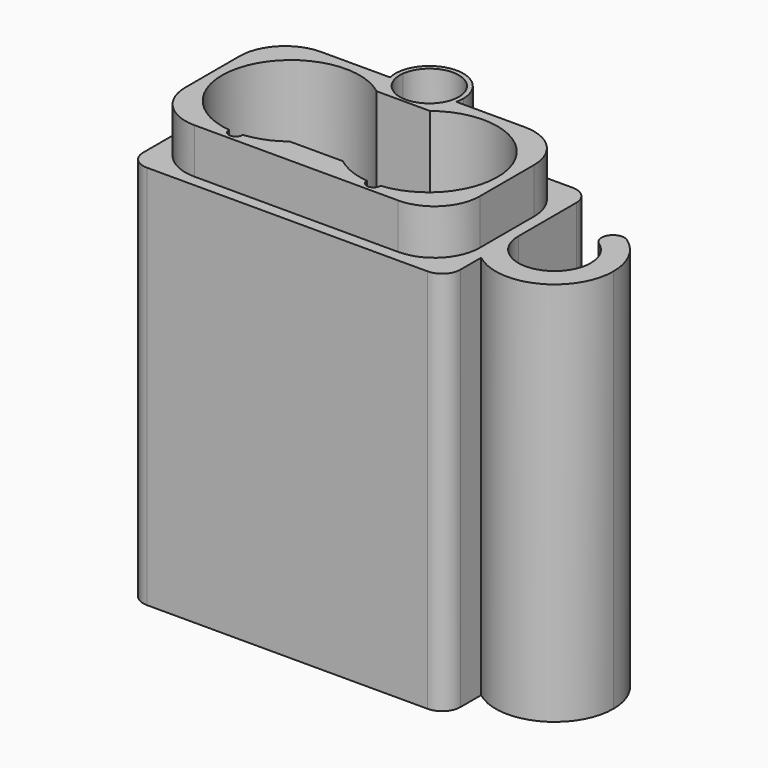
from build123d import *

# Parameters (mm, degrees)
F1_DEPTH  = 2
F2_DEPTH  = 45.5
F4_DEPTH  = 5
F5_R      = 2
F6_R      = 5
F8_DEPTH  = 42.5
F9_R      = 3
F10_DEPTH = 47.501


with BuildPart() as f1:
    # F0 (on Top) → F1 (new body)
    with BuildSketch(Plane.XY):
        with BuildLine():
            ThreePointArc((4.2311346427, 10), (0, 13.850000456), (-4.2311346427, 10))
            Line((-4.2311346427, 10), (-3.2252907411, 10))
            ThreePointArc((-3.2252907411, 10), (0, 12.850000456), (3.2252907411, 10))
            Line((3.2252907411, 10), (4.2311346427, 10))
        make_face()
        with BuildLine():
            Line((3.2252907411, 10), (-3.2252907411, 10))
            ThreePointArc((-3.2252907411, 10), (-0.2003810013, 6.3561836525), (3.25, 9.600000456))
            ThreePointArc((3.25, 9.600000456), (3.2438168034, 9.8003814573), (3.2252907411, 10))
        make_face()
        with BuildLine():
            ThreePointArc((3.2252907411, 10), (0, 12.850000456), (-3.2252907411, 10))
            Line((-3.2252907411, 10), (3.2252907411, 10))
        make_face()
        with BuildLine():
            ThreePointArc((-2.9352384841, 6), (-0.7731344117, 3.3397464334), (0, 0))
            ThreePointArc((0, 0), (0.7731344117, 3.3397464334), (2.9352384841, 6))
            Line((2.9352384841, 6), (2.2588706729, 6))
            ThreePointArc((2.2588706729, 6), (0, 5.350000456), (-2.2588706729, 6))
            Line((-2.2588706729, 6), (-2.9352384841, 6))
        make_face()
        with BuildLine():
            ThreePointArc((2.9352384841, -6), (0.7731344117, -3.3397464334), (0, 0))
            ThreePointArc((0, 0), (-0.7731344117, -3.3397464334), (-2.9352384841, -6))
            Line((-2.9352384841, -6), (2.9352384841, -6))
        make_face()
        with BuildLine():
            ThreePointArc((-4.2311346427, 10), (-3.8118292524, 7.7205170826), (-2.2588706729, 6))
            Line((-2.2588706729, 6), (2.2588706729, 6))
            ThreePointArc((2.2588706729, 6), (3.7190523228, 7.543024564), (4.25, 9.600000456))
            ThreePointArc((4.25, 9.600000456), (4.2452810408, 9.8002225432), (4.2311346427, 10))
            Line((4.2311346427, 10), (3.2252907411, 10))
            ThreePointArc((3.2252907411, 10), (3.2438168034, 9.8003814573), (3.25, 9.600000456))
            ThreePointArc((3.25, 9.600000456), (-0.2003810013, 6.3561836525), (-3.2252907411, 10))
            Line((-3.2252907411, 10), (-4.2311346427, 10))
        make_face()
        with BuildLine():
            ThreePointArc((-2.9352384841, -6), (-0.7731344117, -3.3397464334), (0, 0))
            ThreePointArc((0, 0), (-0.7731344117, 3.3397464334), (-2.9352384841, 6))
            ThreePointArc((-2.9352384841, 6), (-14.6584577236, 2.8174766307), (-8.3490864524, -7.5629934211))
            ThreePointArc((-8.3490864524, -7.5629934211), (-7.6, -6.85), (-6.8509135476, -7.5629934211))
            ThreePointArc((-6.8509135476, -7.5629934211), (-4.7825233693, -7.0584577236), (-2.9352384841, -6))
        make_face()
        with BuildLine():
            ThreePointArc((2.9352384841, 6), (0.7731344117, 3.3397464334), (0, 0))
            ThreePointArc((0, 0), (0.7731344117, -3.3397464334), (2.9352384841, -6))
            ThreePointArc((2.9352384841, -6), (4.7825233693, -7.0584577236), (6.8509135476, -7.5629934211))
            ThreePointArc((6.8509135476, -7.5629934211), (7.6, -6.85), (8.3490864524, -7.5629934211))
            ThreePointArc((8.3490864524, -7.5629934211), (13.2326306926, -5.1023006067), (15.2, 0))
            ThreePointArc((15.2, 0), (10.9397464334, 6.8268655883), (2.9352384841, 6))
        make_face()
        with BuildLine():
            ThreePointArc((-8.3490864524, -7.5629934211), (-14.6584577236, 2.8174766307), (-2.9352384841, 6))
            Line((-2.9352384841, 6), (-2.2588706729, 6))
            ThreePointArc((-2.2588706729, 6), (-3.8118292524, 7.7205170826), (-4.2311346427, 10))
            Line((-4.2311346427, 10), (-17.5, 10))
            Line((-17.5, 10), (-17.5, -10))
            Line((-17.5, -10), (17.5, -10))
            Line((17.5, -10), (17.5, 10))
            Line((17.5, 10), (4.2311346427, 10))
            ThreePointArc((4.2311346427, 10), (4.2452810408, 9.8002225432), (4.25, 9.600000456))
            ThreePointArc((4.25, 9.600000456), (3.7190523228, 7.543024564), (2.2588706729, 6))
            Line((2.2588706729, 6), (2.9352384841, 6))
            ThreePointArc((2.9352384841, 6), (10.9397464334, 6.8268655883), (15.2, 0))
            ThreePointArc((15.2, 0), (13.2326306926, -5.1023006067), (8.3490864524, -7.5629934211))
            ThreePointArc((8.3490864524, -7.5629934211), (8.3497715783, -7.5814910734), (8.35, -7.6))
            ThreePointArc((8.35, -7.6), (7.5814910734, -8.3497715783), (6.8509135476, -7.5629934211))
            ThreePointArc((6.8509135476, -7.5629934211), (4.7825233693, -7.0584577236), (2.9352384841, -6))
            Line((2.9352384841, -6), (-2.9352384841, -6))
            ThreePointArc((-2.9352384841, -6), (-4.7825233693, -7.0584577236), (-6.8509135476, -7.5629934211))
            ThreePointArc((-6.8509135476, -7.5629934211), (-6.8502284217, -7.5814910734), (-6.85, -7.6))
            ThreePointArc((-6.85, -7.6), (-7.6185089266, -8.3497715783), (-8.3490864524, -7.5629934211))
        make_face()
        with BuildLine():
            ThreePointArc((-6.8509135476, -7.5629934211), (-7.6, -6.85), (-8.3490864524, -7.5629934211))
            ThreePointArc((-8.3490864524, -7.5629934211), (-7.6, -7.6), (-6.8509135476, -7.5629934211))
        make_face()
        with BuildLine():
            ThreePointArc((-6.8509135476, -7.5629934211), (-7.6, -7.6), (-8.3490864524, -7.5629934211))
            ThreePointArc((-8.3490864524, -7.5629934211), (-7.6185089266, -8.3497715783), (-6.85, -7.6))
            ThreePointArc((-6.85, -7.6), (-6.8502284217, -7.5814910734), (-6.8509135476, -7.5629934211))
        make_face()
        with BuildLine():
            ThreePointArc((8.3490864524, -7.5629934211), (7.6, -6.85), (6.8509135476, -7.5629934211))
            ThreePointArc((6.8509135476, -7.5629934211), (7.6, -7.6), (8.3490864524, -7.5629934211))
        make_face()
        with BuildLine():
            ThreePointArc((8.3490864524, -7.5629934211), (7.6, -7.6), (6.8509135476, -7.5629934211))
            ThreePointArc((6.8509135476, -7.5629934211), (7.5814910734, -8.3497715783), (8.35, -7.6))
            ThreePointArc((8.35, -7.6), (8.3497715783, -7.5814910734), (8.3490864524, -7.5629934211))
        make_face()
        with BuildLine():
            Line((2.2588706729, 6), (-2.2588706729, 6))
            ThreePointArc((-2.2588706729, 6), (0, 5.350000456), (2.2588706729, 6))
        make_face()
    extrude(amount=-F1_DEPTH)

    # F0 (on Top) → F2 (join)
    with BuildSketch(Plane.XY):
        with BuildLine():
            ThreePointArc((-8.3490864524, -7.5629934211), (-14.6584577236, 2.8174766307), (-2.9352384841, 6))
            Line((-2.9352384841, 6), (-2.2588706729, 6))
            ThreePointArc((-2.2588706729, 6), (-3.8118292524, 7.7205170826), (-4.2311346427, 10))
            Line((-4.2311346427, 10), (-17.5, 10))
            Line((-17.5, 10), (-17.5, -10))
            Line((-17.5, -10), (17.5, -10))
            Line((17.5, -10), (17.5, 10))
            Line((17.5, 10), (4.2311346427, 10))
            ThreePointArc((4.2311346427, 10), (4.2452810408, 9.8002225432), (4.25, 9.600000456))
            ThreePointArc((4.25, 9.600000456), (3.7190523228, 7.543024564), (2.2588706729, 6))
            Line((2.2588706729, 6), (2.9352384841, 6))
            ThreePointArc((2.9352384841, 6), (10.9397464334, 6.8268655883), (15.2, 0))
            ThreePointArc((15.2, 0), (13.2326306926, -5.1023006067), (8.3490864524, -7.5629934211))
            ThreePointArc((8.3490864524, -7.5629934211), (8.3497715783, -7.5814910734), (8.35, -7.6))
            ThreePointArc((8.35, -7.6), (7.5814910734, -8.3497715783), (6.8509135476, -7.5629934211))
            ThreePointArc((6.8509135476, -7.5629934211), (4.7825233693, -7.0584577236), (2.9352384841, -6))
            Line((2.9352384841, -6), (-2.9352384841, -6))
            ThreePointArc((-2.9352384841, -6), (-4.7825233693, -7.0584577236), (-6.8509135476, -7.5629934211))
            ThreePointArc((-6.8509135476, -7.5629934211), (-6.8502284217, -7.5814910734), (-6.85, -7.6))
            ThreePointArc((-6.85, -7.6), (-7.6185089266, -8.3497715783), (-8.3490864524, -7.5629934211))
        make_face()
        with BuildLine():
            ThreePointArc((4.2311346427, 10), (0, 13.850000456), (-4.2311346427, 10))
            Line((-4.2311346427, 10), (-3.2252907411, 10))
            ThreePointArc((-3.2252907411, 10), (0, 12.850000456), (3.2252907411, 10))
            Line((3.2252907411, 10), (4.2311346427, 10))
        make_face()
        with BuildLine():
            ThreePointArc((-4.2311346427, 10), (-3.8118292524, 7.7205170826), (-2.2588706729, 6))
            Line((-2.2588706729, 6), (2.2588706729, 6))
            ThreePointArc((2.2588706729, 6), (3.7190523228, 7.543024564), (4.25, 9.600000456))
            ThreePointArc((4.25, 9.600000456), (4.2452810408, 9.8002225432), (4.2311346427, 10))
            Line((4.2311346427, 10), (3.2252907411, 10))
            ThreePointArc((3.2252907411, 10), (3.2438168034, 9.8003814573), (3.25, 9.600000456))
            ThreePointArc((3.25, 9.600000456), (-0.2003810013, 6.3561836525), (-3.2252907411, 10))
            Line((-3.2252907411, 10), (-4.2311346427, 10))
        make_face()
    extrude(amount=F2_DEPTH)

    # F3 (on face) → F4 (cut)
    with BuildSketch(Plane.XY.offset(45.5)):
        with BuildLine():
            ThreePointArc((4.2311346427, 10), (0, 13.850000456), (-4.2311346427, 10))
            Line((-4.2311346427, 10), (-17.5, 10))
            Line((-17.5, 10), (-17.5, -10))
            Line((-17.5, -10), (17.5, -10))
            Line((17.5, -10), (17.5, 10))
            Line((17.5, 10), (4.2311346427, 10))
        make_face()
        with BuildLine():
            Line((3.6523963674, 8.75), (16.25, 8.75))
            Line((16.25, 8.75), (16.25, -8.75))
            Line((16.25, -8.75), (-16.25, -8.75))
            Line((-16.25, -8.75), (-16.25, 8.75))
            Line((-16.25, 8.75), (-3.6523963674, 8.75))
            ThreePointArc((-3.6523963674, 8.75), (-0.4277929535, 13.3255196398), (3.75, 9.600000456))
            ThreePointArc((3.75, 9.600000456), (3.7255191838, 9.1722075025), (3.6523963674, 8.75))
        make_face(mode=Mode.SUBTRACT)
    extrude(amount=-F4_DEPTH, mode=Mode.SUBTRACT)

    # F5
    f5_edges = [f1.edges().sort_by_distance(p)[0] for p in [
        (17.5, -10, 19.25),
        (17.5, 10, 19.25),
        (-17.5, 10, 19.25),
        (-17.5, -10, 19.25),
    ]]
    fillet(f5_edges, radius=F5_R)

    # F6
    f6_edges = [f1.edges().sort_by_distance(p)[0] for p in [
        (16.25, -8.75, 43),
        (16.25, 8.75, 43),
        (-16.25, 8.75, 43),
        (-16.25, -8.75, 43),
    ]]
    fillet(f6_edges, radius=F6_R)

    # F7 (on face) → F8 (join)
    with BuildSketch(Plane(origin=(0, 0, -2), x_dir=(1, 0, 0), z_dir=(0, 0, -1))):
        with BuildLine():
            ThreePointArc((17.5, 0), (21.5, 4), (25.5, 0))
            ThreePointArc((25.5, 0), (25.0480433512, -1.8469944174), (23.794305811, -3.2766081312))
            ThreePointArc((23.794305811, -3.2766081312), (25.0884620929, -3.1917847095), (25.7612762908, -4.3005482325))
            ThreePointArc((25.7612762908, -4.3005482325), (25.6200398184, -4.8777340259), (25.2282467868, -5.3244883225))
            ThreePointArc((25.2282467868, -5.3244883225), (27.2655704017, -3.0013660128), (28, 0))
            ThreePointArc((28, 0), (24.3504385627, 5.8416607228), (17.5, 5.123475383))
            Line((17.5, 5.123475383), (17.5, 0))
        make_face()
        with BuildLine():
            ThreePointArc((25.7612762908, -4.3005482325), (25.0884620929, -3.1917847095), (23.794305811, -3.2766081312))
            ThreePointArc((23.794305811, -3.2766081312), (23.4873361952, -5.0175187204), (25.2282467868, -5.3244883225))
            ThreePointArc((25.2282467868, -5.3244883225), (25.6200398184, -4.8777340259), (25.7612762908, -4.3005482325))
        make_face()
    extrude(amount=-F8_DEPTH)

    # F9 (on face) → F10 (cut, through all)
    with BuildSketch(Plane(origin=(0, 0, -2), x_dir=(1, 0, 0), z_dir=(0, 0, -1))):
        with Locations((0, -9.600000456)):
            Circle(F9_R)
    extrude(amount=-F10_DEPTH, mode=Mode.SUBTRACT)


solid = f1.part
